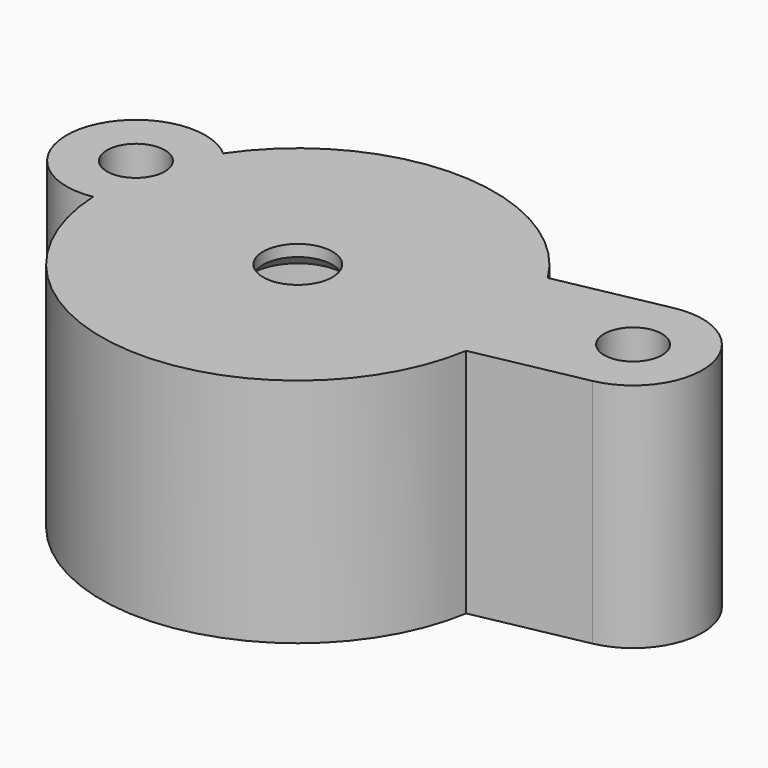
from build123d import *

# Parameters (mm, degrees)
SKETCH_R        = 14
SKETCH_R_2      = 2.5
PAD_DEPTH       = 16
SKETCH001_R     = 9
SKETCH001_R_2   = 2.5
PAD001_DEPTH    = 2.5
SKETCH002_R     = 3
SKETCH002_R_2   = 2.5
PAD002_DEPTH    = 2
CHAMFER_SIZE    = 0.5
CHAMFER001_SIZE = 1


with BuildPart() as part:
    # Sketch → Pad (new body)
    with BuildSketch(Plane.XY):
        with BuildLine():
            ThreePointArc((-14.073185, 9.536533), (-23.781107, 6.605863), (-16.975525, -0.911891))
            ThreePointArc((-16.975525, -0.911891), (-0.931565, -16.974457), (16.773787, -2.764066))
            Line((16.773787, -2.764066), (26.176697, -0.883484))
            ThreePointArc((26.176697, -0.883484), (30.883484, 6.176697), (23.823303, 10.883484))
            Line((23.823303, 10.883484), (14.420394, 9.002902))
            ThreePointArc((14.420394, 9.002902), (0.318322, 16.997019), (-14.073185, 9.536533))
        make_face()
        Circle(SKETCH_R, mode=Mode.SUBTRACT)
        with Locations((25, 5)):
            Circle(SKETCH_R_2, mode=Mode.SUBTRACT)
        with Locations((-18, 5)):
            Circle(SKETCH_R_2, mode=Mode.SUBTRACT)
    extrude(amount=PAD_DEPTH)

    # Sketch001 → Pad001 (join)
    with BuildSketch(Plane.XY.offset(16)):
        with BuildLine():
            ThreePointArc((-14.073185, 9.536533), (-23.781107, 6.605863), (-16.975525, -0.911891))
            ThreePointArc((-16.975525, -0.911891), (-0.931565, -16.974457), (16.773787, -2.764066))
            Line((16.773787, -2.764066), (26.176697, -0.883484))
            ThreePointArc((26.176697, -0.883484), (30.883484, 6.176697), (23.823303, 10.883484))
            Line((23.823303, 10.883484), (14.420394, 9.002902))
            ThreePointArc((14.420394, 9.002902), (0.318322, 16.997019), (-14.073185, 9.536533))
        make_face()
        Circle(SKETCH001_R, mode=Mode.SUBTRACT)
        with Locations((25, 5)):
            Circle(SKETCH001_R_2, mode=Mode.SUBTRACT)
        with Locations((-18, 5)):
            Circle(SKETCH001_R_2, mode=Mode.SUBTRACT)
    extrude(amount=PAD001_DEPTH)

    # Sketch002 → Pad002 (join)
    with BuildSketch(Plane.XY.offset(18)):
        with BuildLine():
            ThreePointArc((-14.073185, 9.536533), (-23.781107, 6.605863), (-16.975525, -0.911891))
            ThreePointArc((-16.975525, -0.911891), (-0.931565, -16.974457), (16.773787, -2.764066))
            Line((16.773787, -2.764066), (26.176697, -0.883484))
            ThreePointArc((26.176697, -0.883484), (30.883484, 6.176697), (23.823303, 10.883484))
            Line((23.823303, 10.883484), (14.420394, 9.002902))
            ThreePointArc((14.420394, 9.002902), (0.318322, 16.997019), (-14.073185, 9.536533))
        make_face()
        Circle(SKETCH002_R, mode=Mode.SUBTRACT)
        with Locations((25, 5)):
            Circle(SKETCH002_R_2, mode=Mode.SUBTRACT)
        with Locations((-18, 5)):
            Circle(SKETCH002_R_2, mode=Mode.SUBTRACT)
    extrude(amount=PAD002_DEPTH)

    # Chamfer
    chamfer_edges = [part.edges().sort_by_distance(p)[0] for p in [
        (-9, 0, 16),
    ]]
    chamfer(chamfer_edges, length=CHAMFER_SIZE)

    # Chamfer001
    chamfer001_edges = [part.edges().sort_by_distance(p)[0] for p in [
        (-3, 0, 18),
    ]]
    chamfer(chamfer001_edges, length=CHAMFER001_SIZE)


solid = part.part
